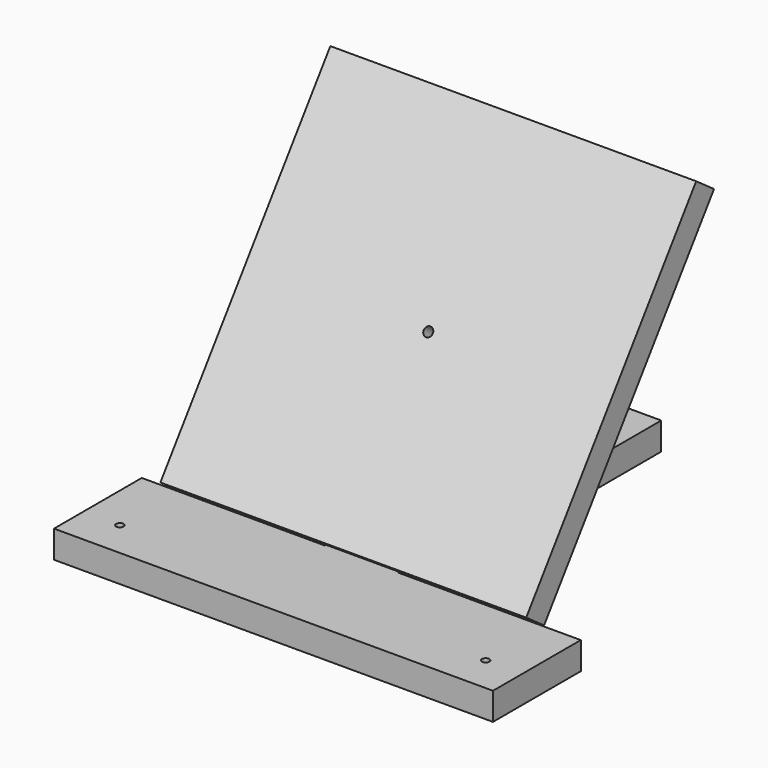
from build123d import *

# Parameters (mm, degrees)
SKETCH_W        = 254
SKETCH_H        = 254
PAD_DEPTH       = 19.05
SKETCH003_R     = 3.175
POCKET_DEPTH    = 139.1318591011
SKETCH004_R     = 7.62
POCKET001_DEPTH = 6.35
SKETCH002_R     = 2.5527
PAD001_DEPTH    = 19.05


with BuildPart() as bodyplatform:
    # Sketch → Pad (new body)
    with BuildSketch(Plane(origin=(0, -27.94, 104.14), x_dir=(1, 0, 0), z_dir=(0, -0.8141155184, 0.5807029557))):
        Rectangle(SKETCH_W, SKETCH_H)
    extrude(amount=PAD_DEPTH)

    # Sketch003 (on Face6 of Pad) → Pocket (cut, through all)
    with BuildSketch(Plane(origin=(0, -83.2602399739, 59.3889520048), x_dir=(1, 0, 0), z_dir=(0, -0.8141155184, 0.5807029557))):
        with Locations((0, 68.5571494991)):
            Circle(SKETCH003_R)
    extrude(amount=-POCKET_DEPTH, mode=Mode.SUBTRACT)

    # Sketch004 (on Face4 of Pocket) → Pocket001 (cut)
    with BuildSketch(Plane(origin=(0, -67.7513393492, 48.3265606985), x_dir=(-1, 0, 0), z_dir=(0, 0.8141155184, -0.5807029557))):
        with Locations((0, 68.5571494991)):
            Circle(SKETCH004_R)
    extrude(amount=-POCKET001_DEPTH, mode=Mode.SUBTRACT)


with BuildPart() as bodyfeet:
    # Sketch002 → Pad001 (new body)
    with BuildSketch(Plane.XY.offset(-19.05)):
        Polygon((-152.4, -177.8), (152.4, -177.8), (152.4, -101.6), (25.4, -101.6), (25.4, 127), (-25.4, 127), (-25.4, -101.6), (-152.4, -101.6), align=None)
        with Locations((-127, -152.4)):
            Circle(SKETCH002_R, mode=Mode.SUBTRACT)
        with Locations((127, -152.4)):
            Circle(SKETCH002_R, mode=Mode.SUBTRACT)
        with Locations((0, 101.6)):
            Circle(SKETCH002_R, mode=Mode.SUBTRACT)
    extrude(amount=PAD001_DEPTH)


solid = Compound([bodyplatform.part, bodyfeet.part])
